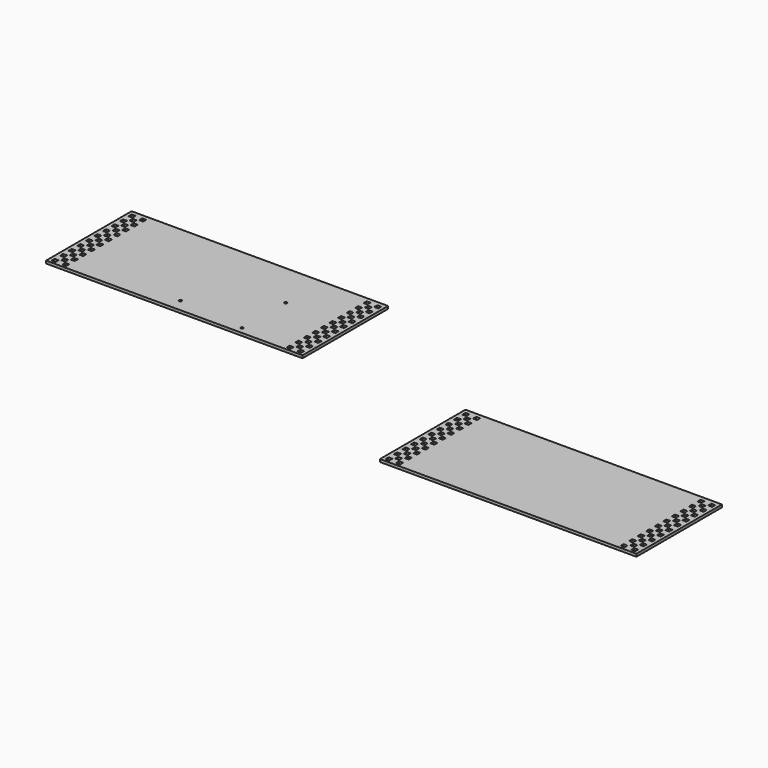
from build123d import *

# Parameters (mm, degrees)
F0_W     = 4.6228
F0_H     = 4.6228
F1_DEPTH = 3.175
F2_W     = 4.6228
F2_H     = 4.6228
F2_R     = 1.5875
F3_DEPTH = 3.175


with BuildPart() as f1:
    # F0 (on Top) → F1 (new body)
    with BuildSketch(Plane.XY):
        Polygon((0, 127), (0, 0), (279.4, 0), (304.8, 0), (304.8, 127), align=None)
        Polygon((8.6614, 3.0734), (4.0386, 3.0734), (4.0386, 5.3848), (4.0386, 7.6962), (6.35, 7.6962), (8.6614, 7.6962), align=None, mode=Mode.SUBTRACT)
        Polygon((21.361394, 3.085604), (16.738594, 3.085604), (16.738594, 5.397004), (16.738594, 7.708404), (19.049994, 7.708404), (21.361394, 7.708404), align=None, mode=Mode.SUBTRACT)
        with Locations((12.7, 11.7348)):
            Rectangle(F0_W, F0_H, mode=Mode.SUBTRACT)
        with Locations((6.35, 18.0848)):
            Rectangle(F0_W, F0_H, mode=Mode.SUBTRACT)
        with Locations((19.049994, 18.097004)):
            Rectangle(F0_W, F0_H, mode=Mode.SUBTRACT)
        with Locations((12.7, 24.4348)):
            Rectangle(F0_W, F0_H, mode=Mode.SUBTRACT)
        with Locations((6.35, 30.7848)):
            Rectangle(F0_W, F0_H, mode=Mode.SUBTRACT)
        with Locations((19.049994, 30.797004)):
            Rectangle(F0_W, F0_H, mode=Mode.SUBTRACT)
        with Locations((12.7, 37.1348)):
            Rectangle(F0_W, F0_H, mode=Mode.SUBTRACT)
        with Locations((6.35, 43.4848)):
            Rectangle(F0_W, F0_H, mode=Mode.SUBTRACT)
        with Locations((19.049994, 43.497004)):
            Rectangle(F0_W, F0_H, mode=Mode.SUBTRACT)
        with Locations((12.7, 49.8348)):
            Rectangle(F0_W, F0_H, mode=Mode.SUBTRACT)
        with Locations((6.35, 56.1848)):
            Rectangle(F0_W, F0_H, mode=Mode.SUBTRACT)
        with Locations((19.049994, 56.197004)):
            Rectangle(F0_W, F0_H, mode=Mode.SUBTRACT)
        with Locations((12.7, 62.5348)):
            Rectangle(F0_W, F0_H, mode=Mode.SUBTRACT)
        Polygon((288.061406, 3.085604), (283.438606, 3.085604), (283.438606, 7.708404), (285.750006, 7.708404), (288.061406, 7.708404), (288.061406, 5.397004), align=None, mode=Mode.SUBTRACT)
        Polygon((300.7614, 5.3848), (300.7614, 3.0734), (296.1386, 3.0734), (296.1386, 7.6962), (298.45, 7.6962), (300.7614, 7.6962), align=None, mode=Mode.SUBTRACT)
        with Locations((292.1, 11.7348)):
            Rectangle(F0_W, F0_H, mode=Mode.SUBTRACT)
        with Locations((285.750006, 18.097004)):
            Rectangle(F0_W, F0_H, mode=Mode.SUBTRACT)
        with Locations((298.45, 18.0848)):
            Rectangle(F0_W, F0_H, mode=Mode.SUBTRACT)
        with Locations((292.1, 24.4348)):
            Rectangle(F0_W, F0_H, mode=Mode.SUBTRACT)
        with Locations((285.750006, 30.797004)):
            Rectangle(F0_W, F0_H, mode=Mode.SUBTRACT)
        with Locations((298.45, 30.7848)):
            Rectangle(F0_W, F0_H, mode=Mode.SUBTRACT)
        with Locations((292.1, 37.1348)):
            Rectangle(F0_W, F0_H, mode=Mode.SUBTRACT)
        with Locations((285.750006, 43.497004)):
            Rectangle(F0_W, F0_H, mode=Mode.SUBTRACT)
        with Locations((298.45, 43.4848)):
            Rectangle(F0_W, F0_H, mode=Mode.SUBTRACT)
        with Locations((292.1, 49.8348)):
            Rectangle(F0_W, F0_H, mode=Mode.SUBTRACT)
        with Locations((285.750006, 56.197004)):
            Rectangle(F0_W, F0_H, mode=Mode.SUBTRACT)
        with Locations((298.45, 56.1848)):
            Rectangle(F0_W, F0_H, mode=Mode.SUBTRACT)
        with Locations((292.1, 62.5348)):
            Rectangle(F0_W, F0_H, mode=Mode.SUBTRACT)
        with Locations((6.35, 68.8848)):
            Rectangle(F0_W, F0_H, mode=Mode.SUBTRACT)
        with Locations((19.049994, 68.897004)):
            Rectangle(F0_W, F0_H, mode=Mode.SUBTRACT)
        with Locations((12.7, 75.2348)):
            Rectangle(F0_W, F0_H, mode=Mode.SUBTRACT)
        with Locations((6.35, 81.5848)):
            Rectangle(F0_W, F0_H, mode=Mode.SUBTRACT)
        with Locations((19.049994, 81.597004)):
            Rectangle(F0_W, F0_H, mode=Mode.SUBTRACT)
        with Locations((12.7, 87.9348)):
            Rectangle(F0_W, F0_H, mode=Mode.SUBTRACT)
        Polygon((4.0386, 91.9734), (4.0386, 96.5962), (8.6614, 96.5962), (8.6614, 91.985604), align=None, mode=Mode.SUBTRACT)
        with Locations((19.049994, 94.297004)):
            Rectangle(F0_W, F0_H, mode=Mode.SUBTRACT)
        with Locations((12.7, 100.6348)):
            Rectangle(F0_W, F0_H, mode=Mode.SUBTRACT)
        with Locations((6.35, 106.9848)):
            Rectangle(F0_W, F0_H, mode=Mode.SUBTRACT)
        with Locations((19.049994, 106.997004)):
            Rectangle(F0_W, F0_H, mode=Mode.SUBTRACT)
        with Locations((12.7, 113.3348)):
            Rectangle(F0_W, F0_H, mode=Mode.SUBTRACT)
        with Locations((6.35, 119.6848)):
            Rectangle(F0_W, F0_H, mode=Mode.SUBTRACT)
        with Locations((19.049994, 119.697004)):
            Rectangle(F0_W, F0_H, mode=Mode.SUBTRACT)
        with Locations((285.750006, 68.897004)):
            Rectangle(F0_W, F0_H, mode=Mode.SUBTRACT)
        with Locations((298.45, 68.8848)):
            Rectangle(F0_W, F0_H, mode=Mode.SUBTRACT)
        with Locations((292.1, 75.2348)):
            Rectangle(F0_W, F0_H, mode=Mode.SUBTRACT)
        with Locations((285.750006, 81.597004)):
            Rectangle(F0_W, F0_H, mode=Mode.SUBTRACT)
        with Locations((298.45, 81.5848)):
            Rectangle(F0_W, F0_H, mode=Mode.SUBTRACT)
        with Locations((292.1, 87.9348)):
            Rectangle(F0_W, F0_H, mode=Mode.SUBTRACT)
        with Locations((285.750006, 94.297004)):
            Rectangle(F0_W, F0_H, mode=Mode.SUBTRACT)
        with Locations((298.45, 94.2848)):
            Rectangle(F0_W, F0_H, mode=Mode.SUBTRACT)
        with Locations((292.1, 100.6348)):
            Rectangle(F0_W, F0_H, mode=Mode.SUBTRACT)
        with Locations((285.750006, 106.997004)):
            Rectangle(F0_W, F0_H, mode=Mode.SUBTRACT)
        with Locations((298.45, 106.9848)):
            Rectangle(F0_W, F0_H, mode=Mode.SUBTRACT)
        with Locations((292.1, 113.3348)):
            Rectangle(F0_W, F0_H, mode=Mode.SUBTRACT)
        with Locations((285.750006, 119.697004)):
            Rectangle(F0_W, F0_H, mode=Mode.SUBTRACT)
        with Locations((298.45, 119.6848)):
            Rectangle(F0_W, F0_H, mode=Mode.SUBTRACT)
    extrude(amount=F1_DEPTH)


with BuildPart() as f3:
    # F2 (on Top) → F3 (new body)
    with BuildSketch(Plane.XY):
        Polygon((-491.162416, 244.925835), (-491.162416, 117.925835), (-349.663645, 117.925835), (-343.575645, 117.925835), (-264.617645, 117.925835), (-259.413645, 117.925835), (-211.762416, 117.925835), (-186.362416, 117.925835), (-186.362416, 244.925835), align=None)
        Polygon((-482.501016, 120.999235), (-487.123816, 120.999235), (-487.123816, 123.310635), (-487.123816, 125.622035), (-484.812416, 125.622035), (-482.501016, 125.622035), align=None, mode=Mode.SUBTRACT)
        Polygon((-469.801022, 121.011439), (-474.423822, 121.011439), (-474.423822, 123.322839), (-474.423822, 125.634239), (-472.112422, 125.634239), (-469.801022, 125.634239), align=None, mode=Mode.SUBTRACT)
        with Locations((-478.462416, 129.660635)):
            Rectangle(F2_W, F2_H, mode=Mode.SUBTRACT)
        with Locations((-484.812416, 136.010635)):
            Rectangle(F2_W, F2_H, mode=Mode.SUBTRACT)
        with Locations((-472.112422, 136.022839)):
            Rectangle(F2_W, F2_H, mode=Mode.SUBTRACT)
        with Locations((-478.462416, 142.360635)):
            Rectangle(F2_W, F2_H, mode=Mode.SUBTRACT)
        with Locations((-484.812416, 148.710635)):
            Rectangle(F2_W, F2_H, mode=Mode.SUBTRACT)
        with Locations((-472.112422, 148.722839)):
            Rectangle(F2_W, F2_H, mode=Mode.SUBTRACT)
        with Locations((-343.575645, 132.863835)):
            Circle(F2_R, mode=Mode.SUBTRACT)
        with Locations((-478.462416, 155.060635)):
            Rectangle(F2_W, F2_H, mode=Mode.SUBTRACT)
        with Locations((-484.812416, 161.410635)):
            Rectangle(F2_W, F2_H, mode=Mode.SUBTRACT)
        with Locations((-472.112422, 161.422839)):
            Rectangle(F2_W, F2_H, mode=Mode.SUBTRACT)
        with Locations((-478.462416, 167.760635)):
            Rectangle(F2_W, F2_H, mode=Mode.SUBTRACT)
        with Locations((-484.812416, 174.110635)):
            Rectangle(F2_W, F2_H, mode=Mode.SUBTRACT)
        with Locations((-472.112422, 174.122839)):
            Rectangle(F2_W, F2_H, mode=Mode.SUBTRACT)
        with Locations((-478.462416, 180.460635)):
            Rectangle(F2_W, F2_H, mode=Mode.SUBTRACT)
        with Locations((-264.617645, 125.680835)):
            Circle(F2_R, mode=Mode.SUBTRACT)
        Polygon((-203.10101, 121.011439), (-207.72381, 121.011439), (-207.72381, 125.634239), (-205.41241, 125.634239), (-203.10101, 125.634239), (-203.10101, 123.322839), align=None, mode=Mode.SUBTRACT)
        Polygon((-190.401016, 123.310635), (-190.401016, 120.999235), (-195.023816, 120.999235), (-195.023816, 125.622035), (-192.712416, 125.622035), (-190.401016, 125.622035), align=None, mode=Mode.SUBTRACT)
        with Locations((-199.062416, 129.660635)):
            Rectangle(F2_W, F2_H, mode=Mode.SUBTRACT)
        with Locations((-205.41241, 136.022839)):
            Rectangle(F2_W, F2_H, mode=Mode.SUBTRACT)
        with Locations((-192.712416, 136.010635)):
            Rectangle(F2_W, F2_H, mode=Mode.SUBTRACT)
        with Locations((-199.062416, 142.360635)):
            Rectangle(F2_W, F2_H, mode=Mode.SUBTRACT)
        with Locations((-205.41241, 148.722839)):
            Rectangle(F2_W, F2_H, mode=Mode.SUBTRACT)
        with Locations((-192.712416, 148.710635)):
            Rectangle(F2_W, F2_H, mode=Mode.SUBTRACT)
        with Locations((-199.062416, 155.060635)):
            Rectangle(F2_W, F2_H, mode=Mode.SUBTRACT)
        with Locations((-205.41241, 161.422839)):
            Rectangle(F2_W, F2_H, mode=Mode.SUBTRACT)
        with Locations((-192.712416, 161.410635)):
            Rectangle(F2_W, F2_H, mode=Mode.SUBTRACT)
        with Locations((-199.062416, 167.760635)):
            Rectangle(F2_W, F2_H, mode=Mode.SUBTRACT)
        with Locations((-205.41241, 174.122839)):
            Rectangle(F2_W, F2_H, mode=Mode.SUBTRACT)
        with Locations((-192.712416, 174.110635)):
            Rectangle(F2_W, F2_H, mode=Mode.SUBTRACT)
        with Locations((-199.062416, 180.460635)):
            Rectangle(F2_W, F2_H, mode=Mode.SUBTRACT)
        with Locations((-484.812416, 186.810635)):
            Rectangle(F2_W, F2_H, mode=Mode.SUBTRACT)
        with Locations((-472.112422, 186.822839)):
            Rectangle(F2_W, F2_H, mode=Mode.SUBTRACT)
        with Locations((-478.462416, 193.160635)):
            Rectangle(F2_W, F2_H, mode=Mode.SUBTRACT)
        with Locations((-484.812416, 199.510635)):
            Rectangle(F2_W, F2_H, mode=Mode.SUBTRACT)
        with Locations((-472.112422, 199.522839)):
            Rectangle(F2_W, F2_H, mode=Mode.SUBTRACT)
        with Locations((-478.462416, 205.860635)):
            Rectangle(F2_W, F2_H, mode=Mode.SUBTRACT)
        Polygon((-487.123816, 209.899235), (-487.123816, 214.522035), (-482.501016, 214.522035), (-482.501016, 209.911439), align=None, mode=Mode.SUBTRACT)
        with Locations((-472.112422, 212.222839)):
            Rectangle(F2_W, F2_H, mode=Mode.SUBTRACT)
        with Locations((-478.462416, 218.560635)):
            Rectangle(F2_W, F2_H, mode=Mode.SUBTRACT)
        with Locations((-484.812416, 224.910635)):
            Rectangle(F2_W, F2_H, mode=Mode.SUBTRACT)
        with Locations((-472.112422, 224.922839)):
            Rectangle(F2_W, F2_H, mode=Mode.SUBTRACT)
        with Locations((-478.462416, 231.260635)):
            Rectangle(F2_W, F2_H, mode=Mode.SUBTRACT)
        with Locations((-484.812416, 237.610635)):
            Rectangle(F2_W, F2_H, mode=Mode.SUBTRACT)
        with Locations((-472.112422, 237.622839)):
            Rectangle(F2_W, F2_H, mode=Mode.SUBTRACT)
        with Locations((-264.617645, 190.680835)):
            Circle(F2_R, mode=Mode.SUBTRACT)
        with Locations((-205.41241, 186.822839)):
            Rectangle(F2_W, F2_H, mode=Mode.SUBTRACT)
        with Locations((-192.712416, 186.810635)):
            Rectangle(F2_W, F2_H, mode=Mode.SUBTRACT)
        with Locations((-199.062416, 193.160635)):
            Rectangle(F2_W, F2_H, mode=Mode.SUBTRACT)
        with Locations((-205.41241, 199.522839)):
            Rectangle(F2_W, F2_H, mode=Mode.SUBTRACT)
        with Locations((-192.712416, 199.510635)):
            Rectangle(F2_W, F2_H, mode=Mode.SUBTRACT)
        with Locations((-199.062416, 205.860635)):
            Rectangle(F2_W, F2_H, mode=Mode.SUBTRACT)
        with Locations((-205.41241, 212.222839)):
            Rectangle(F2_W, F2_H, mode=Mode.SUBTRACT)
        with Locations((-192.712416, 212.210635)):
            Rectangle(F2_W, F2_H, mode=Mode.SUBTRACT)
        with Locations((-199.062416, 218.560635)):
            Rectangle(F2_W, F2_H, mode=Mode.SUBTRACT)
        with Locations((-205.41241, 224.922839)):
            Rectangle(F2_W, F2_H, mode=Mode.SUBTRACT)
        with Locations((-192.712416, 224.910635)):
            Rectangle(F2_W, F2_H, mode=Mode.SUBTRACT)
        with Locations((-199.062416, 231.260635)):
            Rectangle(F2_W, F2_H, mode=Mode.SUBTRACT)
        with Locations((-205.41241, 237.622839)):
            Rectangle(F2_W, F2_H, mode=Mode.SUBTRACT)
        with Locations((-192.712416, 237.610635)):
            Rectangle(F2_W, F2_H, mode=Mode.SUBTRACT)
    extrude(amount=F3_DEPTH)


solid = Compound([f1.part, f3.part])
